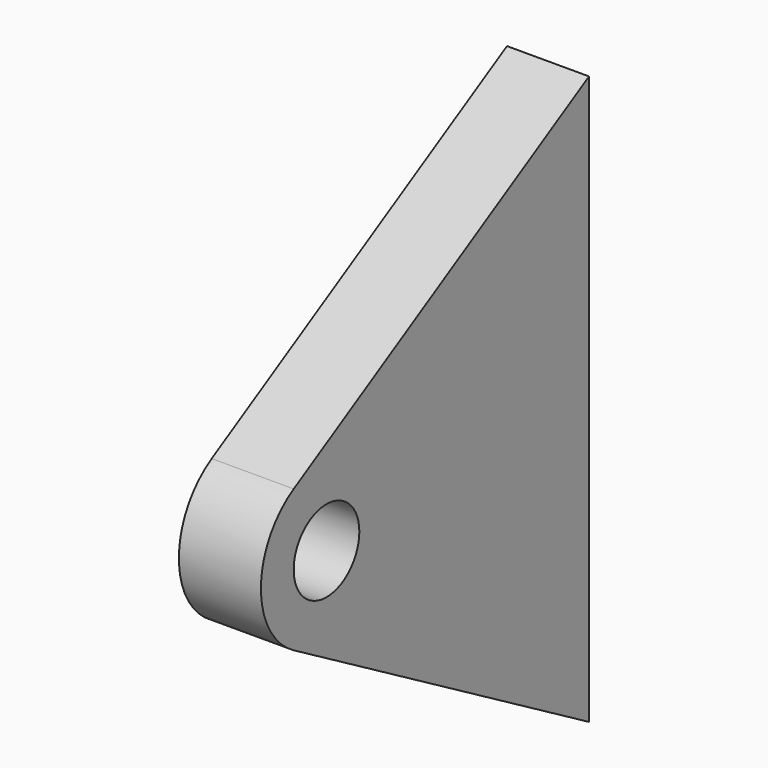
from build123d import *

# Parameters (mm, degrees)
F1_DEPTH = 25.4
F2_R     = 25.4
F3_R     = 12.7
F4_DEPTH = 25.4


with BuildPart() as f1:
    # F0 (on Right) → F1 (new body)
    with BuildSketch(Plane.YZ):
        Polygon((50.8, -76.2), (50.8, 76.2), (50.8, 87.988181), (-101.6, 0), (50.8, -87.988181), align=None)
    extrude(amount=F1_DEPTH)

    # F2
    f2_edges = [f1.edges().sort_by_distance(p)[0] for p in [
        (12.7, -101.6, 0),
    ]]
    fillet(f2_edges, radius=F2_R)

    # F3 (on face) → F4 (cut)
    with BuildSketch(Plane.YZ.offset(25.4)):
        with Locations((-50.8, 0)):
            Circle(F3_R)
    extrude(amount=-F4_DEPTH, mode=Mode.SUBTRACT)


solid = f1.part
